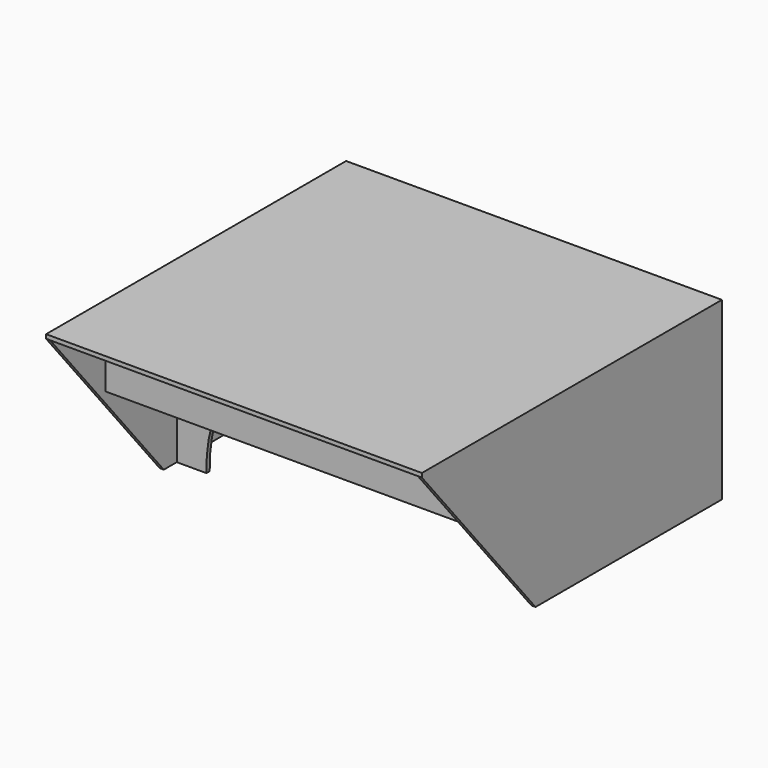
from build123d import *

# Parameters (mm, degrees)
PAD027_DEPTH    = 40
PAD028_DEPTH    = 52.4
SKETCH048_W     = 90.6
SKETCH048_H     = 42.3
PAD029_DEPTH    = 1
SKETCH049_R     = 38
POCKET015_DEPTH = 1
POCKET016_DEPTH = 46.3
SKETCH051_R     = 2.15
POCKET017_DEPTH = 1
SKETCH063_W     = 90.6
SKETCH063_H     = 1
PAD033_DEPTH    = 18
SKETCH069_R     = 3.25
POCKET028_DEPTH = 1
SKETCH071_W     = 4
SKETCH071_H     = 6
POCKET030_DEPTH = 1


with BuildPart() as part:
    # Sketch047 → Pad027 (new body)
    with BuildSketch(Plane.XZ):
        Polygon((-45.3, 42), (-46.3, 42), (-46.3, 85.3), (46.3, 85.3), (46.3, 42), (45.3, 42), (45.3, 84.3), (-45.3, 84.3), align=None)
    extrude(amount=PAD027_DEPTH)

    # Sketch047 → Pad028 (join)
    with BuildSketch(Plane.XZ):
        Polygon((-45.3, 42), (-46.3, 42), (-46.3, 85.3), (46.3, 85.3), (46.3, 42), (45.3, 42), (45.3, 84.3), (-45.3, 84.3), align=None)
    extrude(amount=-PAD028_DEPTH)

    # Sketch048 → Pad029 (join)
    with BuildSketch(Plane.XZ):
        with Locations((0, 63.15)):
            Rectangle(SKETCH048_W, SKETCH048_H)
    extrude(amount=PAD029_DEPTH)

    # Sketch049 → Pocket015 (cut)
    with BuildSketch(Plane.XZ):
        with Locations((0, 43)):
            Circle(SKETCH049_R)
    extrude(amount=POCKET015_DEPTH, mode=Mode.SUBTRACT)

    # Sketch050 → Pocket016 (cut, symmetric)
    with BuildSketch(Plane.YZ):
        Polygon((-5, 42), (-40, 84.3), (-40, 42), align=None)
    extrude(amount=POCKET016_DEPTH, both=True, mode=Mode.SUBTRACT)

    # Sketch051 → Pocket017 (cut)
    with BuildSketch(Plane.XZ):
        with Locations((-35.75, 78.75)):
            Circle(SKETCH051_R)
        with Locations((35.75, 78.75)):
            Circle(SKETCH051_R)
    extrude(amount=POCKET017_DEPTH, mode=Mode.SUBTRACT)

    # Sketch063 (on Face12 of Pocket017) → Pad033 (join)
    with BuildSketch(Plane(origin=(0, 0, 84.3), x_dir=(1, 0, 0), z_dir=(0, 0, -1))):
        with Locations((0, 22.5)):
            Rectangle(SKETCH063_W, SKETCH063_H)
    extrude(amount=PAD033_DEPTH)

    # Sketch069 (on Face13 of Pad033) → Pocket028 (cut)
    with BuildSketch(Plane.XZ.offset(23)):
        with Locations((-35.75, 78.75)):
            Circle(SKETCH069_R)
        with Locations((35.75, 78.75)):
            Circle(SKETCH069_R)
    extrude(amount=-POCKET028_DEPTH, mode=Mode.SUBTRACT)

    # Sketch071 → Pocket030 (cut)
    with BuildSketch(Plane.XZ):
        with Locations((43.3, 81.3)):
            Rectangle(SKETCH071_W, SKETCH071_H)
    extrude(amount=POCKET030_DEPTH, mode=Mode.SUBTRACT)


solid = part.part
